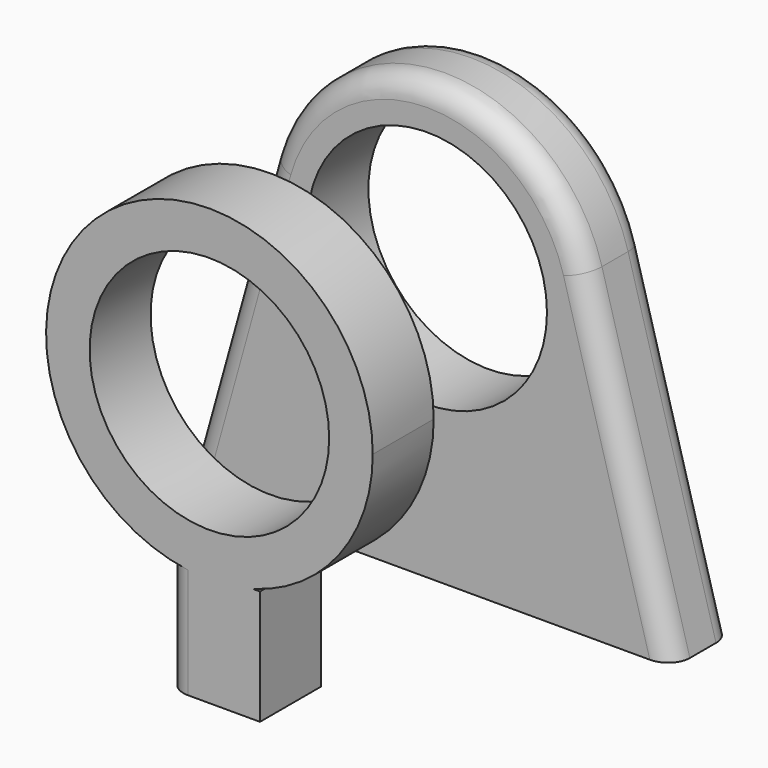
from build123d import *

# Parameters (mm, degrees)
F0_R     = 11
F2_DEPTH = 7
F4_R     = 11
F5_DEPTH = 7
F6_R     = 2
F6_2_R   = 2


with BuildPart() as f2:
    # F0 (on Front) → F2 (new body)
    with BuildSketch(Plane.XZ):
        with BuildLine():
            ThreePointArc((14.4515297125, 29.0191154462), (14.8622499253, 27.0281832157), (15, 25))
            ThreePointArc((15, 25), (-2.0281832157, 10.1377500747), (-14.4515297125, 29.0191154462))
            Line((-14.4515297125, 29.0191154462), (-22.5220369491, 0))
            Line((-22.5220369491, 0), (0, 0))
            Line((0, 0), (22.5220369491, 0))
            Line((22.5220369491, 0), (14.4515297125, 29.0191154462))
        make_face()
        with BuildLine():
            ThreePointArc((-14.4515297125, 29.0191154462), (-2.0281832157, 10.1377500747), (15, 25))
            ThreePointArc((15, 25), (14.8622499253, 27.0281832157), (14.4515297125, 29.0191154462))
            ThreePointArc((14.4515297125, 29.0191154462), (0, 40), (-14.4515297125, 29.0191154462))
        make_face()
        with Locations((0, 25)):
            Circle(F0_R, mode=Mode.SUBTRACT)
    extrude(amount=F2_DEPTH)

    # F6
    f6_edges = [f2.edges().sort_by_distance(p)[0] for p in [
        (-18.486783, -7, 14.509558),
        (18.486783, 0, 14.509558),
    ]]
    fillet(f6_edges, radius=F6_R)


with BuildPart() as f5:
    # F4 (on offset) → F5 (new body)
    with BuildSketch(Plane.XZ.offset(25)):
        with BuildLine():
            ThreePointArc((3.9812427399, 10.5379909333), (11.9314425175, 15.9093080873), (15, 25))
            ThreePointArc((15, 25), (-9.0906919127, 36.9314425175), (-3.9812427399, 10.5379909333))
            Line((-3.9812427399, 10.5379909333), (3.9812427399, 10.5379909333))
        make_face()
        with Locations((0, 25)):
            Circle(F4_R, mode=Mode.SUBTRACT)
        with BuildLine():
            Line((3.9812427399, 10.5379909333), (-3.9812427399, 10.5379909333))
            ThreePointArc((-3.9812427399, 10.5379909333), (0, 10), (3.9812427399, 10.5379909333))
        make_face()
        with BuildLine():
            ThreePointArc((3.9812427399, 10.5379909333), (0, 10), (-3.9812427399, 10.5379909333))
            Line((-3.9812427399, 10.5379909333), (-3.9812427399, 0))
            Line((-3.9812427399, 0), (4.6436069533, 0))
            Line((4.6436069533, 0), (4.6436069533, 10.5379909333))
            Line((4.6436069533, 10.5379909333), (3.9812427399, 10.5379909333))
        make_face()
    extrude(amount=F5_DEPTH)

    # F6#2
    f6_2_edges = [f5.edges().sort_by_distance(p)[0] for p in [
        (-3.981243, -32, 5.268995),
    ]]
    fillet(f6_2_edges, radius=F6_2_R)


solid = Compound([f2.part, f5.part])
